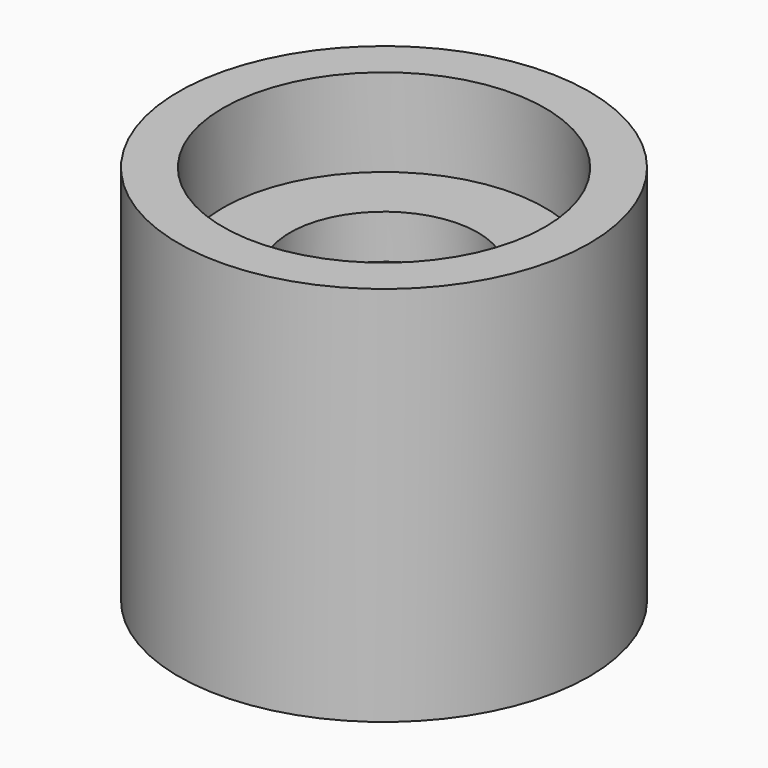
from build123d import *

# Parameters (mm, degrees)
F3_DEPTH = 25.4


with BuildPart() as f1:
    # F0 (on Front) → F1 (revolve)
    with BuildSketch(Plane.XZ):
        Polygon((13.93825, 25.4), (8.128, 25.4), (8.128, 21.59), (10.16, 21.59), (11.1125, 0), (17.78, 0), (17.78, 32.9946), (13.93825, 32.9946), align=None)
    revolve(axis=Axis((0, 0, 10.795), (0, 0, -1)))

    # F2 (on Right) → F3 (cut)
    with BuildSketch(Plane.YZ):
        with BuildLine():
            ThreePointArc((1.827803, 15.322886), (0, 16.099158), (-1.827803, 15.322886))
            ThreePointArc((-1.827803, 15.322886), (-6.441291, 8.263134), (-8.128, 0))
            Line((-8.128, 0), (8.128, 0))
            ThreePointArc((8.128, 0), (6.441291, 8.263134), (1.827803, 15.322886))
        make_face()
    extrude(amount=-F3_DEPTH, mode=Mode.SUBTRACT)


solid = f1.part
